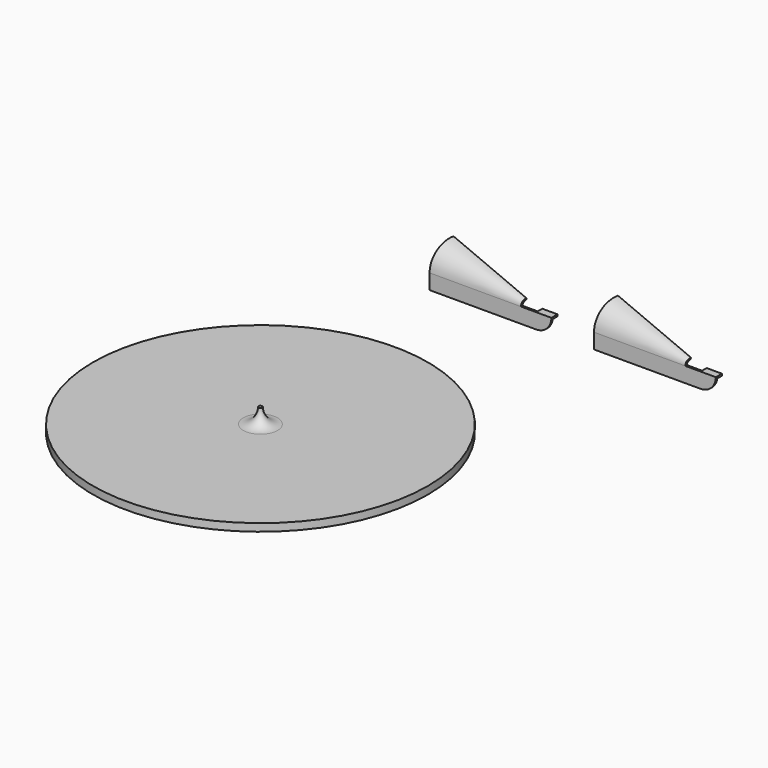
from build123d import *

# Parameters (mm, degrees)
F1_DEPTH = 1.5748
F2_W     = 12.7
F2_H     = 4.7752
F3_DEPTH = 1.5748
F4_W     = 76.2
F4_H     = 1.5748
F5_ANGLE = -90
F7_R     = 139.7
F8_DEPTH = 6.35


with BuildPart() as f1:
    # F0 (on Front) → F1 (new body)
    with BuildSketch(Plane.XZ):
        with BuildLine():
            Line((-90.447761, 0), (-1.547761, 0))
            ThreePointArc((-1.547761, 0), (7.432495, 3.719744), (11.152239, 12.7))
            Line((11.152239, 12.7), (-90.447761, 12.7))
            Line((-90.447761, 12.7), (-90.447761, 0))
        make_face()
    extrude(amount=F1_DEPTH)

    # F2 (on face) → F3 (join)
    with BuildSketch(Plane.XY.offset(12.7)):
        with Locations((4.802239, 2.3876)):
            Rectangle(F2_W, F2_H)
    extrude(amount=-F3_DEPTH)

    # F4 (on face) → F5 (revolve)
    with BuildSketch(Plane.XY.offset(12.7)):
        with Locations((-52.347761, -0.7874)):
            Rectangle(F4_W, F4_H)
    revolve(axis=Axis((-52.347761, 11.1125, 12.7), (0.97898, -0.203954, 0)), revolution_arc=F5_ANGLE)


with BuildPart() as f6_1:
    # F6: copy of F1
    add(f1.part.moved(Location((137.16, 0, 1.016))))


with BuildPart() as f8:
    # F7 (on Top) → F8 (new body)
    with BuildSketch(Plane.XY):
        with Locations((-58.418136, -218.010128)):
            Circle(F7_R)
    extrude(amount=-F8_DEPTH)

    # F10 (on face) → F11 (revolve)
    with BuildSketch(Plane.YZ.offset(-58.418136)):
        with BuildLine():
            Line((-218.010128, 12.7), (-218.010128, 0))
            Line((-218.010128, 0), (-203.722628, 0))
            ThreePointArc((-203.722628, 0), (-212.702884, 3.719744), (-216.422628, 12.7))
            Line((-216.422628, 12.7), (-218.010128, 12.7))
        make_face()
    revolve(axis=Axis((-58.418136, -218.010128, 6.35), (0, 0, 1)))


solid = Compound([f1.part, f6_1.part, f8.part])
